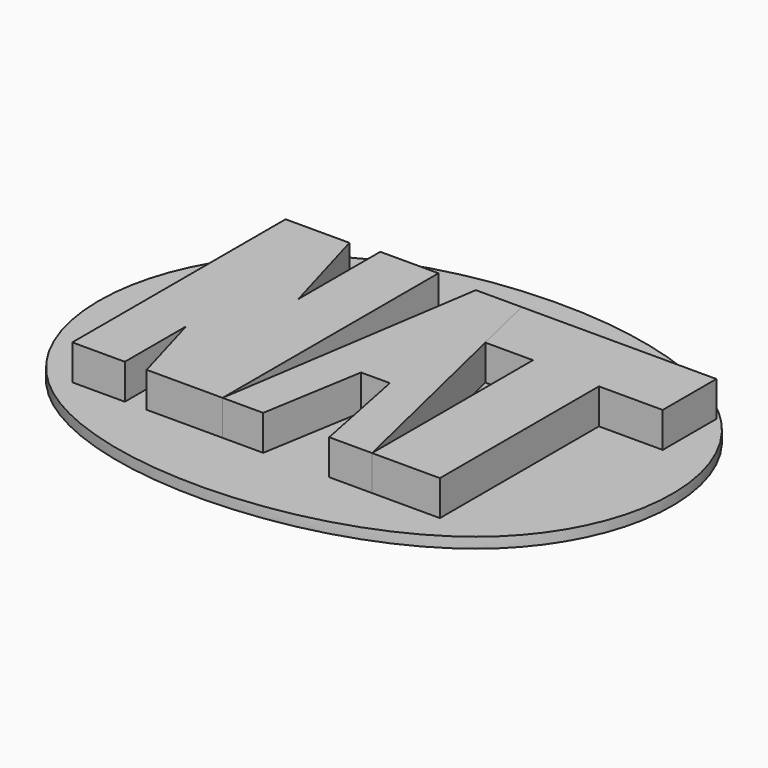
from build123d import *

# Parameters (mm, degrees)
F1_DEPTH = 12.7
F2_DEPTH = 12.7
F3_DEPTH = 12.7
F5_DEPTH = 3.81


with BuildPart() as f1:
    # F0 (on Top) → F1 (new body)
    with BuildSketch(Plane.XY):
        Polygon((-62.3766927527, 46.7818044126), (-85.4022949934, 46.7818044126), (-85.4022949934, -49.4050830603), (-66.4563924074, -49.4050830603), (-66.4563924074, -21.7987033878), (-58.5817858567, -49.4050830603), (-31.1882905662, -49.4050830603), (-31.1882905662, 47.9516349733), (-52.1740950644, 47.9387719753), (-52.1740950644, 11.0140763851), align=None)
    extrude(amount=F1_DEPTH)


with BuildPart() as f2:
    # F0 (on Top) → F2 (new body)
    with BuildSketch(Plane.XY):
        Polygon((-16.5267791777, 46.4949570596), (-31.1882905662, -49.4050830603), (-16.5267791777, -49.4050830603), (-10.4087405084, -12.9374125972), (0, -12.9374125972), (7.2679491714, -49.4050830603), (22.7350816131, -49.4050830603), (5.529117934, 23.172294721), (0, 46.4949570596), align=None)
    extrude(amount=F2_DEPTH)


with BuildPart() as f3:
    # F0 (on Top) → F3 (new body)
    with BuildSketch(Plane.XY):
        Polygon((70.2455714345, 46.4949570596), (0, 46.4949570596), (5.529117934, 23.172294721), (22.7350816131, 23.172294721), (22.7350816131, -49.4050830603), (47.2190156579, -49.4050830603), (47.2190156579, 22.2978685051), (70.2455714345, 22.2978685051), align=None)
    extrude(amount=F3_DEPTH)


with BuildPart() as f5:
    # F4 (on Top) → F5 (new body)
    with BuildSketch(Plane.XY):
        with BuildLine():
            add(Edge.make_bspline(
                [(-85.391163826, 49.6416091919), (-46.8853315452, 82.6738491482), (100.2935157759, 80.1917747796), (92.2543776844, -80.7983461048), (-122.4135911437, -88.458973036), (-116.8342090122, 22.6681832969), (-85.391163826, 49.6416091919)],
                knots=[0, 0, 0, 0, 0.2766415471, 0.4971273403, 0.7741003856, 1, 1, 1, 1], degree=3))
        make_face()
    extrude(amount=-F5_DEPTH)


solid = Compound([f1.part, f2.part, f3.part, f5.part])
